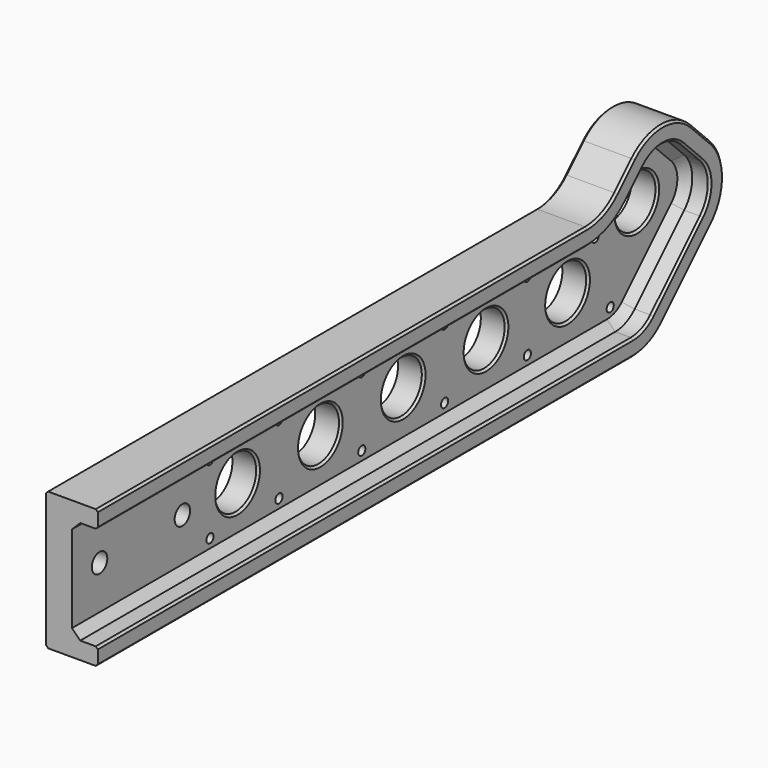
from build123d import *

# Parameters (mm, degrees)
F1_DEPTH = 19.05
F2_R     = 19.05
F4_DEPTH = 9.525
F5_SIZE  = 3.048
F6_R     = 9.525
F7_DEPTH = 9.526
F8_SIZE  = 0.762
F10_D    = 7.112
F12_D    = 3.302


with BuildPart() as f1:
    # F0 (on Right) → F1 (new body)
    with BuildSketch(Plane.YZ):
        Polygon((0, 50.8), (0, 0), (254, 0), (295.819744, 41.819744), (259.898719, 77.740768), (232.957951, 50.8), align=None)
    extrude(amount=-F1_DEPTH)

    # F2
    f2_edges = [f1.edges().sort_by_distance(p)[0] for p in [
        (-9.525, 259.898719, 77.740768),
        (-9.525, 295.819744, 41.819744),
        (-9.525, 232.957951, 50.8),
        (-9.525, 254, 0),
    ]]
    fillet(f2_edges, radius=F2_R)

    # F3 (on face) → F4 (cut)
    with BuildSketch(Plane.YZ):
        with BuildLine():
            ThreePointArc((243.027695, 51.889488), (234.787342, 46.38346), (225.067183, 44.45))
            Line((225.067183, 44.45), (0, 44.45))
            Line((0, 44.45), (0, 6.35))
            Line((0, 6.35), (246.109232, 6.35))
            ThreePointArc((246.109232, 6.35), (250.969311, 7.31673), (255.089488, 10.069744))
            Line((255.089488, 10.069744), (277.859232, 32.839488))
            ThreePointArc((277.859232, 32.839488), (281.578976, 41.819744), (277.859232, 50.8))
            Line((277.859232, 50.8), (268.878976, 59.780256))
            ThreePointArc((268.878976, 59.780256), (259.898719, 63.5), (250.918463, 59.780256))
            Line((250.918463, 59.780256), (243.027695, 51.889488))
        make_face()
    extrude(amount=-F4_DEPTH, mode=Mode.SUBTRACT)

    # F5
    f5_edges = [f1.edges().sort_by_distance(p)[0] for p in [
        (-9.525, 112.533591, 44.45),
    ]]
    chamfer(f5_edges, length=F5_SIZE)

    # F6 (on face) → F7 (cut, through all)
    with BuildSketch(Plane.YZ.offset(-9.525)):
        with Locations((76.2, 25.4)):
            Circle(F6_R)
        with Locations((114.3, 25.4)):
            Circle(F6_R)
        with Locations((152.4, 25.4)):
            Circle(F6_R)
        with Locations((259.898719, 41.819744)):
            Circle(F6_R)
        with Locations((190.5, 25.4)):
            Circle(F6_R)
        with Locations((228.014071, 25.4)):
            Circle(F6_R)
    extrude(amount=-F7_DEPTH, mode=Mode.SUBTRACT)

    # F8
    f8_edges = [f1.edges().sort_by_distance(p)[0] for p in [
        (-9.525, 66.675, 25.4),
        (-9.525, 104.775, 25.4),
        (-9.525, 142.875, 25.4),
        (-9.525, 180.975, 25.4),
        (-9.525, 218.489071, 25.4),
        (-9.525, 250.373719, 41.819744),
        (0, 123.054616, 0),
        (0, 266.47436, 21.454616),
        (-19.05, 123.054616, 0),
    ]]
    chamfer(f8_edges, length=F8_SIZE)

    # F10 (through all)
    with Locations(Plane.YZ.offset(-9.525)):
        with Locations((50.8, 25.4), (12.7, 25.4)):
            Hole(F10_D / 2)

    # F12 (through all)
    with Locations(Plane.YZ.offset(-9.525)):
        with Locations((247.65, 12.7), (240.714071, 38.1), (209.55, 12.7), (209.55, 38.1), (171.45, 12.7), (171.45, 38.1), (133.35, 12.7), (133.35, 38.1), (95.25, 12.7), (95.25, 38.1), (63.5, 12.7), (63.5, 38.1)):
            Hole(F12_D / 2)


solid = f1.part
